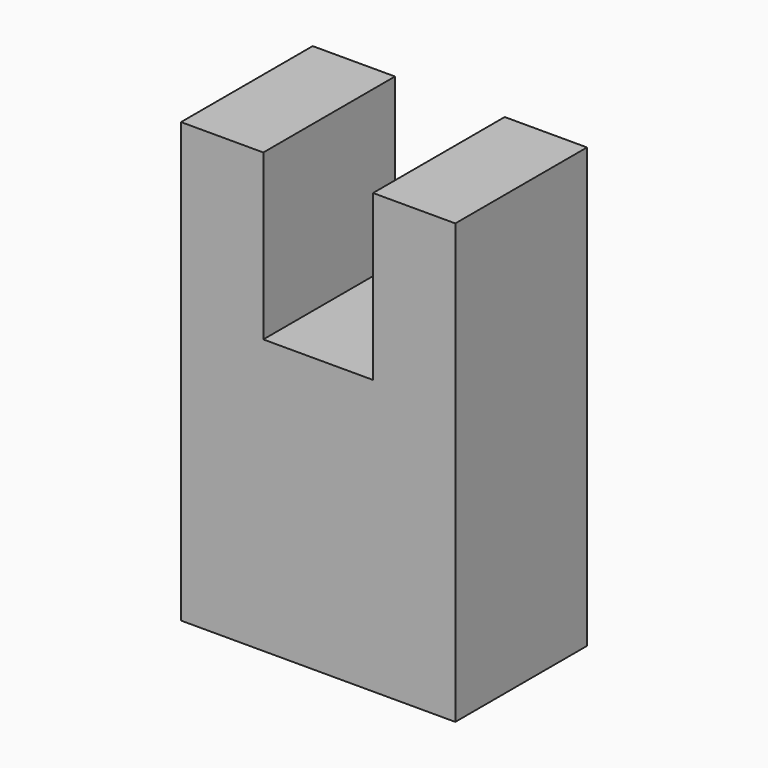
from build123d import *

# Parameters (mm, degrees)
F1_DEPTH = 38.1
F3_D     = 7.14375
F3_DEPTH = 12.7
F3_TIP   = 2.1461990236


with BuildPart() as f1:
    # F0 (on Front) → F1 (new body)
    with BuildSketch(Plane.XZ):
        Polygon((-40.8561713994, 45.1132481158), (-40.8561713994, -56.4867518842), (22.6438286006, -56.4867518842), (22.6438286006, 45.1132481158), (3.5938286006, 45.1132481158), (3.5938286006, 7.0132481158), (-21.8061713994, 7.0132481158), (-21.8061713994, 45.1132481158), align=None)
    extrude(amount=F1_DEPTH)

    # F3
    with Locations(Plane(origin=(0, 0, 0), x_dir=(-1, 0, 0), z_dir=(0, 1, 0))):
        with Locations((-9.9438286006, -18.3867518842)):
            Hole(F3_D / 2, depth=F3_DEPTH)
            with Locations((0, 0, -(F3_DEPTH + F3_TIP / 2))):  # 118° drill point
                Cone(0, F3_D / 2, F3_TIP, mode=Mode.SUBTRACT)


solid = f1.part
